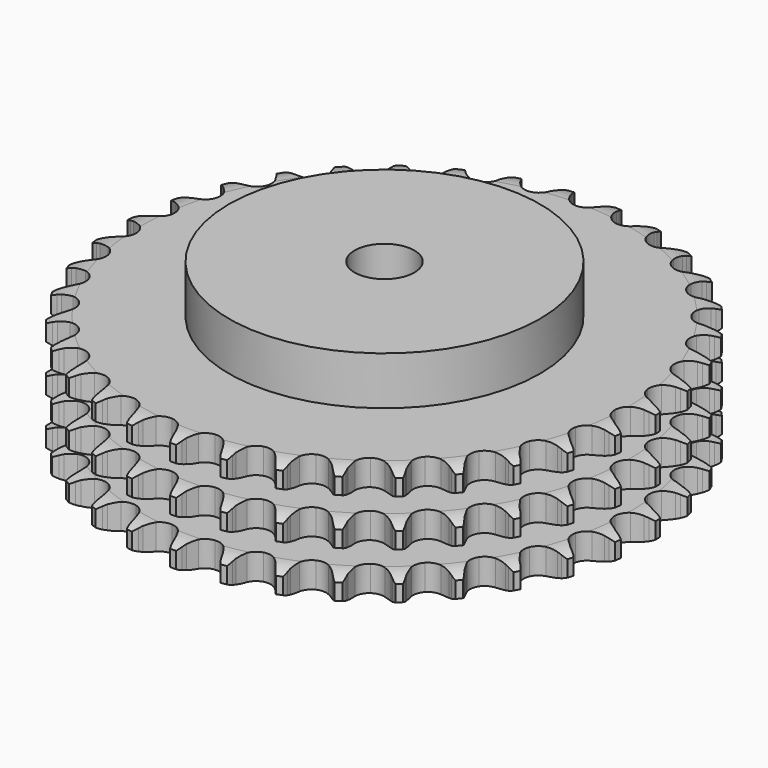
from build123d import *

# Parameters (mm, degrees)
PAD_DEPTH         = 49.8
SKETCH001_R       = 65
PAD001_DEPTH      = 70
SKETCH002_R       = 12.5
POCKET_DEPTH      = 0.001
POCKET_DEPTH_BACK = 70.001


with BuildPart() as part:
    # Sprocket → Pad (new body)
    with BuildSketch(Plane.XY):
        with BuildLine():
            ThreePointArc((-10.067115, 111.854811), (-8.635283, 110.142644), (-7.627397, 108.151206))
            Line((-7.627397, 108.151206), (-7.038579, 106.560645))
            ThreePointArc((-7.038579, 106.560645), (-6.107139, 104.508656), (-4.892548, 102.610495))
            ThreePointArc((-4.892548, 102.610495), (-2.736878, 100.803962), (0, 100.155911))
            ThreePointArc((0, 100.155911), (2.736878, 100.803962), (4.892548, 102.610495))
            ThreePointArc((4.892548, 102.610495), (6.107139, 104.508656), (7.038579, 106.560645))
            Line((7.038579, 106.560645), (7.627397, 108.151206))
            ThreePointArc((7.627397, 108.151206), (8.635283, 110.142644), (10.067115, 111.854811))
            ThreePointArc((10.067115, 111.854811), (11.170218, 109.914496), (11.806322, 107.775096))
            Line((11.806322, 107.775096), (12.101671, 106.104959))
            ThreePointArc((12.101671, 106.104959), (12.651747, 103.91963), (13.507889, 101.835101))
            ThreePointArc((13.507889, 101.835101), (15.306347, 99.67269), (17.883528, 98.546364))
            ThreePointArc((17.883528, 98.546364), (20.692138, 98.695313), (23.135734, 100.087904))
            Line((23.135734, 100.087904), (25.952604, 103.591385))
            ThreePointArc((25.952604, 103.591385), (26.364631, 104.332939), (26.815965, 105.051248))
            ThreePointArc((26.815965, 105.051248), (28.163239, 106.830717), (29.87778, 108.259706))
            ThreePointArc((29.87778, 108.259706), (30.616699, 106.153605), (30.860576, 103.935006))
            Line((30.860576, 103.935006), (30.852964, 102.238971))
            ThreePointArc((30.852964, 102.238971), (31.003994, 99.990542), (31.474171, 97.786642))
            ThreePointArc((31.474171, 97.786642), (32.857614, 95.337855), (35.192266, 93.769456))
            ThreePointArc((35.192266, 93.769456), (37.982335, 93.414515), (40.635319, 94.348406))
            Line((40.635319, 94.348406), (44.032491, 97.292612))
            ThreePointArc((44.032491, 97.292612), (44.570306, 97.948679), (45.142646, 98.574855))
            ThreePointArc((45.142646, 98.574855), (46.786005, 100.085163), (48.728149, 101.185044))
            ThreePointArc((48.728149, 101.185044), (49.079134, 98.98085), (48.922946, 96.754359))
            Line((48.922946, 96.754359), (48.612618, 95.08694))
            ThreePointArc((48.612618, 95.08694), (48.359748, 92.847676), (48.428847, 90.59524))
            ThreePointArc((48.428847, 90.59524), (49.35281, 87.938783), (51.369894, 85.978721))
            ThreePointArc((51.369894, 85.978721), (54.051749, 85.131297), (56.828851, 85.576472))
            Line((56.828851, 85.576472), (60.697138, 87.866775))
            ThreePointArc((60.697138, 87.866775), (61.343455, 88.416268), (62.018405, 88.930186))
            ThreePointArc((62.018405, 88.930186), (63.905031, 90.12279), (66.012355, 90.858212))
            ThreePointArc((66.012355, 90.858212), (65.964126, 88.62677), (65.412892, 86.463947))
            Line((65.412892, 86.463947), (64.809822, 84.878735))
            ThreePointArc((64.809822, 84.878735), (64.16118, 82.720609), (63.826981, 80.492033))
            ThreePointArc((63.826981, 80.492033), (64.261766, 77.713286), (65.896452, 75.424559))
            ThreePointArc((65.896452, 75.424559), (68.383895, 74.11189), (71.195857, 74.05404))
            Line((71.195857, 74.05404), (75.410928, 75.616827))
            ThreePointArc((75.410928, 75.616827), (76.144975, 76.042086), (76.900842, 76.427228))
            ThreePointArc((76.900842, 76.427228), (78.970096, 77.263795), (81.174869, 77.611122))
            ThreePointArc((81.174869, 77.611122), (80.728976, 75.424152), (79.800414, 73.394513))
            Line((79.800414, 73.394513), (78.923985, 71.942459))
            ThreePointArc((78.923985, 71.942459), (77.900418, 69.934834), (77.173662, 67.801745))
            ThreePointArc((77.173662, 67.801745), (77.105296, 64.99002), (78.305044, 62.446189))
            ThreePointArc((78.305044, 62.446189), (80.518127, 60.710465), (83.274569, 60.15145))
            Line((83.274569, 60.15145), (87.70095, 60.936493))
            ThreePointArc((87.70095, 60.936493), (88.499133, 61.223848), (89.311622, 61.467835))
            ThreePointArc((89.311622, 61.467835), (91.496998, 61.921479), (93.728357, 61.869547))
            ThreePointArc((93.728357, 61.869547), (92.89913, 59.797339), (91.623085, 57.966119))
            Line((91.623085, 57.966119), (90.501466, 56.693892))
            ThreePointArc((90.501466, 56.693892), (89.135873, 54.901296), (88.039919, 52.932254))
            ThreePointArc((88.039919, 52.932254), (87.470598, 50.177922), (88.196848, 47.460748))
            ThreePointArc((88.196848, 47.460748), (90.06444, 45.357756), (92.676769, 44.315543))
            Line((92.676769, 44.315543), (97.17219, 44.297609))
            ThreePointArc((97.17219, 44.297609), (98.008855, 44.437825), (98.851853, 44.532816))
            ThreePointArc((98.851853, 44.532816), (101.08311, 44.588956), (103.269337, 44.139433))
            ThreePointArc((103.269337, 44.139433), (102.08343, 42.248591), (100.500914, 40.674646))
            Line((100.500914, 40.674646), (99.170155, 39.623137))
            ThreePointArc((99.170155, 39.623137), (97.506428, 38.103185), (96.0765, 36.361476))
            ThreePointArc((96.0765, 36.361476), (95.024524, 33.753063), (95.253932, 30.949879))
            ThreePointArc((95.253932, 30.949879), (96.716007, 28.547212), (99.100261, 27.055298))
            Line((99.100261, 27.055298), (103.520237, 26.234963))
            ThreePointArc((103.520237, 26.234963), (104.368493, 26.223534), (105.214905, 26.166475))
            ThreePointArc((105.214905, 26.166475), (107.420329, 25.823307), (109.491157, 24.990642))
            ThreePointArc((109.491157, 24.990642), (107.986685, 23.341939), (106.148562, 22.075857))
            Line((106.148562, 22.075857), (104.651434, 21.278862))
            ThreePointArc((104.651434, 21.278862), (102.743046, 20.080406), (101.025103, 18.622011))
            ThreePointArc((101.025103, 18.622011), (99.524283, 16.243354), (99.249476, 13.444255))
            ThreePointArc((99.249476, 13.444255), (100.259043, 10.819136), (102.338589, 8.925473))
            Line((102.338589, 8.925473), (106.541057, 7.329105))
            ThreePointArc((106.541057, 7.329105), (107.373641, 7.166397), (108.196262, 6.959123))
            ThreePointArc((108.196262, 6.959123), (110.304969, 6.227675), (112.19384, 5.038631))
            ThreePointArc((112.19384, 5.038631), (110.419158, 3.685057), (108.384507, 2.767531))
            Line((108.384507, 2.767531), (106.76913, 2.250667))
            ThreePointArc((106.76913, 2.250667), (104.677418, 1.412226), (102.726677, 0.284019))
            ThreePointArc((102.726677, 0.284019), (100.825249, -1.78843), (100.055061, -4.493478))
            ThreePointArc((100.055061, -4.493478), (100.57967, -7.256675), (102.28767, -9.491224))
            Line((102.28767, -9.491224), (106.137561, -11.812317))
            ThreePointArc((106.137561, -11.812317), (106.927712, -12.121074), (107.700103, -12.471902))
            ThreePointArc((107.700103, -12.471902), (109.644317, -13.568119), (111.290522, -15.075325))
            ThreePointArc((111.290522, -15.075325), (109.302669, -16.090266), (107.136885, -16.629745))
            Line((107.136885, -16.629745), (105.455179, -16.849867))
            ThreePointArc((105.455179, -16.849867), (103.247372, -17.301344), (101.12653, -18.063102))
            ThreePointArc((101.12653, -18.063102), (98.885609, -19.762733), (97.644793, -22.286787))
            ThreePointArc((97.644793, -22.286787), (97.667584, -25.099251), (98.949142, -27.602865))
            Line((98.949142, -27.602865), (102.322716, -30.574082))
            ThreePointArc((102.322716, -30.574082), (103.045038, -31.018963), (103.742374, -31.502069))
            ThreePointArc((103.742374, -31.502069), (105.459607, -32.927823), (106.810234, -34.704749))
            ThreePointArc((106.810234, -34.704749), (104.673103, -35.348434), (102.445796, -35.492528))
            Line((102.445796, -35.492528), (100.751811, -35.408832))
            ThreePointArc((100.751811, -35.408832), (98.49887, -35.458834), (96.276094, -35.82966))
            ThreePointArc((96.276094, -35.82966), (93.767705, -37.101845), (92.096142, -39.36378))
            ThreePointArc((92.096142, -39.36378), (91.616381, -42.135116), (92.430307, -44.827327))
            Line((92.430307, -44.827327), (95.219135, -48.35317))
            ThreePointArc((95.219135, -48.35317), (95.850412, -48.919878), (96.45028, -49.519734))
            ThreePointArc((96.45028, -49.519734), (97.885338, -51.229199), (98.896977, -53.218733))
            ThreePointArc((98.896977, -53.218733), (96.679256, -53.470474), (94.462014, -53.214552))
            Line((94.462014, -53.214552), (92.810197, -52.829728))
            ThreePointArc((92.810197, -52.829728), (90.584533, -52.476648), (88.331265, -52.444623))
            ThreePointArc((88.331265, -52.444623), (85.636029, -53.248473), (83.587445, -55.175589))
            ThreePointArc((83.587445, -55.175589), (82.620553, -57.816724), (82.940685, -60.611002))
            Line((82.940685, -60.611002), (85.055132, -64.578148))
            ThreePointArc((85.055132, -64.578148), (85.575075, -65.248467), (86.058194, -65.945794))
            ThreePointArc((86.058194, -65.945794), (87.164954, -67.884026), (87.80509, -70.022223))
            ThreePointArc((87.80509, -70.022223), (85.578059, -69.873929), (83.442145, -69.226216))
            Line((83.442145, -69.226216), (81.885586, -68.552633))
            ThreePointArc((81.885586, -68.552633), (79.758735, -67.80782), (77.547396, -67.373972))
            ThreePointArc((77.547396, -67.373972), (74.751941, -67.683652), (72.392178, -69.214009))
            ThreePointArc((72.392178, -69.214009), (70.969232, -71.640055), (70.785282, -74.446589))
            Line((70.785282, -74.446589), (72.157388, -78.727531))
            ThreePointArc((72.157388, -78.727531), (72.549285, -79.479917), (72.900127, -80.252302))
            ThreePointArc((72.900127, -80.252302), (73.643016, -82.357006), (73.891076, -84.575141))
            ThreePointArc((73.891076, -84.575141), (71.726313, -84.031579), (69.740378, -83.012893))
            Line((69.740378, -83.012893), (68.329106, -82.0722))
            ThreePointArc((68.329106, -82.0722), (66.369425, -80.959592), (64.27109, -80.137867))
            ThreePointArc((64.27109, -80.137867), (61.465263, -79.943422), (58.870167, -81.027834))
            ThreePointArc((58.870167, -81.027834), (57.036902, -83.160815), (56.354782, -85.889402))
            Line((56.354782, -85.889402), (56.940445, -90.346546))
            ThreePointArc((56.940445, -90.346546), (57.191701, -91.156817), (57.398991, -91.979435))
            ThreePointArc((57.398991, -91.979435), (57.754131, -94.182963), (57.602141, -96.409745))
            ThreePointArc((57.602141, -96.409745), (55.569223, -95.488385), (53.797097, -94.131466))
            Line((53.797097, -94.131466), (52.576472, -92.953899))
            ThreePointArc((52.576472, -92.953899), (50.846948, -91.509257), (48.929059, -90.326065))
            ThreePointArc((48.929059, -90.326065), (46.203042, -89.633745), (43.456021, -90.237358))
            ThreePointArc((43.456021, -90.237358), (41.271358, -92.008719), (40.112992, -94.571659))
            Line((40.112992, -94.571659), (39.89339, -99.061749))
            ThreePointArc((39.89339, -99.061749), (39.995928, -99.903862), (40.053003, -100.750273))
            ThreePointArc((40.053003, -100.750273), (40.008981, -102.981802), (39.461826, -105.14566))
            ThreePointArc((39.461826, -105.14566), (37.626094, -103.876115), (36.124733, -102.224578))
            Line((36.124733, -102.224578), (35.133987, -100.847983))
            ThreePointArc((35.133987, -100.847983), (33.690208, -99.117739), (32.014407, -97.611109))
            ThreePointArc((32.014407, -97.611109), (29.455817, -96.443166), (26.645163, -96.546579))
            ThreePointArc((26.645163, -96.546579), (24.179319, -97.899386), (22.581938, -100.214305))
            Line((22.581938, -100.214305), (21.564129, -104.593026))
            ThreePointArc((21.564129, -104.593026), (21.514654, -105.439915), (21.419679, -106.282915))
            ThreePointArc((21.419679, -106.282915), (20.977909, -108.470722), (20.053176, -110.502107))
            ThreePointArc((20.053176, -110.502107), (18.47363, -108.925181), (17.29129, -107.032107))
            Line((17.29129, -107.032107), (16.562267, -105.50073))
            ThreePointArc((16.562267, -105.50073), (15.450637, -103.540495), (14.070786, -101.758851))
            ThreePointArc((14.070786, -101.758851), (11.761858, -100.152824), (8.977907, -99.752713))
            ThreePointArc((8.977907, -99.752713), (6.310137, -100.643487), (4.325082, -102.63598))
            Line((4.325082, -102.63598), (2.541778, -106.762597))
            ThreePointArc((2.541778, -106.762597), (2.341881, -107.587042), (2.097908, -108.399536))
            ThreePointArc((2.097908, -108.399536), (1.272591, -110.473303), (0, -112.306926))
            ThreePointArc((0, -112.306926), (-1.272591, -110.473303), (-2.097908, -108.399536))
            Line((-2.097908, -108.399536), (-2.541778, -106.762597))
            ThreePointArc((-2.541778, -106.762597), (-3.285531, -104.635374), (-4.325082, -102.63598))
            ThreePointArc((-4.325082, -102.63598), (-6.310137, -100.643487), (-8.977907, -99.752713))
            ThreePointArc((-8.977907, -99.752713), (-11.761858, -100.152824), (-14.070786, -101.758851))
            Line((-14.070786, -101.758851), (-16.562267, -105.50073))
            ThreePointArc((-16.562267, -105.50073), (-16.906162, -106.276233), (-17.29129, -107.032107))
            ThreePointArc((-17.29129, -107.032107), (-18.47363, -108.925181), (-20.053176, -110.502107))
            ThreePointArc((-20.053176, -110.502107), (-20.977909, -108.470722), (-21.419679, -106.282915))
            Line((-21.419679, -106.282915), (-21.564129, -104.593026))
            ThreePointArc((-21.564129, -104.593026), (-21.916098, -102.367186), (-22.581938, -100.214305))
            ThreePointArc((-22.581938, -100.214305), (-24.179319, -97.899386), (-26.645163, -96.546579))
            ThreePointArc((-26.645163, -96.546579), (-29.455817, -96.443166), (-32.014407, -97.611109))
            Line((-32.014407, -97.611109), (-35.133987, -100.847983))
            ThreePointArc((-35.133987, -100.847983), (-35.610827, -101.549618), (-36.124733, -102.224578))
            ThreePointArc((-36.124733, -102.224578), (-37.626094, -103.876115), (-39.461826, -105.14566))
            ThreePointArc((-39.461826, -105.14566), (-40.008981, -102.981802), (-40.053003, -100.750273))
            Line((-40.053003, -100.750273), (-39.89339, -99.061749))
            ThreePointArc((-39.89339, -99.061749), (-39.842264, -96.808833), (-40.112992, -94.571659))
            ThreePointArc((-40.112992, -94.571659), (-41.271358, -92.008719), (-43.456021, -90.237358))
            ThreePointArc((-43.456021, -90.237358), (-46.203042, -89.633745), (-48.929059, -90.326065))
            Line((-48.929059, -90.326065), (-52.576472, -92.953899))
            ThreePointArc((-52.576472, -92.953899), (-53.170931, -93.559115), (-53.797097, -94.131466))
            ThreePointArc((-53.797097, -94.131466), (-55.569223, -95.488385), (-57.602141, -96.409745))
            ThreePointArc((-57.602141, -96.409745), (-57.754131, -94.182963), (-57.398991, -91.979435))
            Line((-57.398991, -91.979435), (-56.940445, -90.346546))
            ThreePointArc((-56.940445, -90.346546), (-56.487868, -88.138964), (-56.354782, -85.889402))
            ThreePointArc((-56.354782, -85.889402), (-57.036902, -83.160815), (-58.870167, -81.027834))
            ThreePointArc((-58.870167, -81.027834), (-61.465263, -79.943422), (-64.27109, -80.137867))
            Line((-64.27109, -80.137867), (-68.329106, -82.0722))
            ThreePointArc((-68.329106, -82.0722), (-69.022078, -82.561545), (-69.740378, -83.012893))
            ThreePointArc((-69.740378, -83.012893), (-71.726313, -84.031579), (-73.891076, -84.575141))
            ThreePointArc((-73.891076, -84.575141), (-73.643016, -82.357006), (-72.900127, -80.252302))
            Line((-72.900127, -80.252302), (-72.157388, -78.727531))
            ThreePointArc((-72.157388, -78.727531), (-71.317904, -76.636237), (-70.785282, -74.446589))
            ThreePointArc((-70.785282, -74.446589), (-70.969232, -71.640055), (-72.392178, -69.214009))
            ThreePointArc((-72.392178, -69.214009), (-74.751941, -67.683652), (-77.547396, -67.373972))
            Line((-77.547396, -67.373972), (-81.885586, -68.552633))
            ThreePointArc((-81.885586, -68.552633), (-82.654798, -68.91038), (-83.442145, -69.226216))
            ThreePointArc((-83.442145, -69.226216), (-85.578059, -69.873929), (-87.80509, -70.022223))
            ThreePointArc((-87.80509, -70.022223), (-87.164954, -67.884026), (-86.058194, -65.945794))
            Line((-86.058194, -65.945794), (-85.055132, -64.578148))
            ThreePointArc((-85.055132, -64.578148), (-83.855724, -62.670357), (-82.940685, -60.611002))
            ThreePointArc((-82.940685, -60.611002), (-82.620553, -57.816724), (-83.587445, -55.175589))
            ThreePointArc((-83.587445, -55.175589), (-85.636029, -53.248473), (-88.331265, -52.444623))
            Line((-88.331265, -52.444623), (-92.810197, -52.829728))
            ThreePointArc((-92.810197, -52.829728), (-93.630924, -53.044377), (-94.462014, -53.214552))
            ThreePointArc((-94.462014, -53.214552), (-96.679256, -53.470474), (-98.896977, -53.218733))
            ThreePointArc((-98.896977, -53.218733), (-97.885338, -51.229199), (-96.45028, -49.519734))
            Line((-96.45028, -49.519734), (-95.219135, -48.35317))
            ThreePointArc((-95.219135, -48.35317), (-93.698353, -46.690201), (-92.430307, -44.827327))
            ThreePointArc((-92.430307, -44.827327), (-91.616381, -42.135116), (-92.096142, -39.36378))
            ThreePointArc((-92.096142, -39.36378), (-93.767705, -37.101845), (-96.276094, -35.82966))
            Line((-96.276094, -35.82966), (-100.751811, -35.408832))
            ThreePointArc((-100.751811, -35.408832), (-101.597676, -35.473485), (-102.445796, -35.492528))
            ThreePointArc((-102.445796, -35.492528), (-104.673103, -35.348434), (-106.810234, -34.704749))
            ThreePointArc((-106.810234, -34.704749), (-105.459607, -32.927823), (-103.742374, -31.502069))
            Line((-103.742374, -31.502069), (-102.322716, -30.574082))
            ThreePointArc((-102.322716, -30.574082), (-100.529439, -29.209384), (-98.949142, -27.602865))
            ThreePointArc((-98.949142, -27.602865), (-97.667584, -25.099251), (-97.644793, -22.286787))
            ThreePointArc((-97.644793, -22.286787), (-98.885609, -19.762733), (-101.12653, -18.063102))
            Line((-101.12653, -18.063102), (-105.455179, -16.849867))
            ThreePointArc((-105.455179, -16.849867), (-106.298995, -16.762446), (-107.136885, -16.629745))
            ThreePointArc((-107.136885, -16.629745), (-109.302669, -16.090266), (-111.290522, -15.075325))
            ThreePointArc((-111.290522, -15.075325), (-109.644317, -13.568119), (-107.700103, -12.471902))
            Line((-107.700103, -12.471902), (-106.137561, -11.812317))
            ThreePointArc((-106.137561, -11.812317), (-104.129427, -10.789752), (-102.28767, -9.491224))
            ThreePointArc((-102.28767, -9.491224), (-100.57967, -7.256675), (-100.055061, -4.493478))
            ThreePointArc((-100.055061, -4.493478), (-100.825249, -1.78843), (-102.726677, 0.284019))
            Line((-102.726677, 0.284019), (-106.76913, 2.250667))
            ThreePointArc((-106.76913, 2.250667), (-107.583777, 2.487352), (-108.384507, 2.767531))
            ThreePointArc((-108.384507, 2.767531), (-110.419158, 3.685057), (-112.19384, 5.038631))
            ThreePointArc((-112.19384, 5.038631), (-110.304969, 6.227675), (-108.196262, 6.959123))
            Line((-108.196262, 6.959123), (-106.541057, 7.329105))
            ThreePointArc((-106.541057, 7.329105), (-104.382608, 7.976671), (-102.338589, 8.925473))
            ThreePointArc((-102.338589, 8.925473), (-100.259043, 10.819136), (-99.249476, 13.444255))
            ThreePointArc((-99.249476, 13.444255), (-99.524283, 16.243354), (-101.025103, 18.622011))
            Line((-101.025103, 18.622011), (-104.651434, 21.278862))
            ThreePointArc((-104.651434, 21.278862), (-105.410728, 21.657204), (-106.148562, 22.075857))
            ThreePointArc((-106.148562, 22.075857), (-107.986685, 23.341939), (-109.491157, 24.990642))
            ThreePointArc((-109.491157, 24.990642), (-107.420329, 25.823307), (-105.214905, 26.166475))
            Line((-105.214905, 26.166475), (-103.520237, 26.234963))
            ThreePointArc((-103.520237, 26.234963), (-101.280848, 26.486717), (-99.100261, 27.055298))
            ThreePointArc((-99.100261, 27.055298), (-96.716007, 28.547212), (-95.253932, 30.949879))
            ThreePointArc((-95.253932, 30.949879), (-95.024524, 33.753063), (-96.0765, 36.361476))
            Line((-96.0765, 36.361476), (-99.170155, 39.623137))
            ThreePointArc((-99.170155, 39.623137), (-99.849691, 40.130976), (-100.500914, 40.674646))
            ThreePointArc((-100.500914, 40.674646), (-102.08343, 42.248591), (-103.269337, 44.139433))
            ThreePointArc((-103.269337, 44.139433), (-101.08311, 44.588956), (-98.851853, 44.532816))
            Line((-98.851853, 44.532816), (-97.17219, 44.297609))
            ThreePointArc((-97.17219, 44.297609), (-94.923837, 44.145458), (-92.676769, 44.315543))
            ThreePointArc((-92.676769, 44.315543), (-90.06444, 45.357756), (-88.196848, 47.460748))
            ThreePointArc((-88.196848, 47.460748), (-87.470598, 50.177922), (-88.039919, 52.932254))
            Line((-88.039919, 52.932254), (-90.501466, 56.693892))
            ThreePointArc((-90.501466, 56.693892), (-91.079403, 57.314906), (-91.623085, 57.966119))
            ThreePointArc((-91.623085, 57.966119), (-92.89913, 59.797339), (-93.728357, 61.869547))
            ThreePointArc((-93.728357, 61.869547), (-91.496998, 61.921479), (-89.311622, 61.467835))
            Line((-89.311622, 61.467835), (-87.70095, 60.936493))
            ThreePointArc((-87.70095, 60.936493), (-85.515896, 60.385328), (-83.274569, 60.15145))
            ThreePointArc((-83.274569, 60.15145), (-80.518127, 60.710465), (-78.305044, 62.446189))
            ThreePointArc((-78.305044, 62.446189), (-77.105296, 64.99002), (-77.173662, 67.801745))
            Line((-77.173662, 67.801745), (-78.923985, 71.942459))
            ThreePointArc((-78.923985, 71.942459), (-79.381748, 72.656687), (-79.800414, 73.394513))
            ThreePointArc((-79.800414, 73.394513), (-80.728976, 75.424152), (-81.174869, 77.611122))
            ThreePointArc((-81.174869, 77.611122), (-78.970096, 77.263795), (-76.900842, 76.427228))
            Line((-76.900842, 76.427228), (-75.410928, 75.616827))
            ThreePointArc((-75.410928, 75.616827), (-73.359404, 74.684363), (-71.195857, 74.05404))
            ThreePointArc((-71.195857, 74.05404), (-68.383895, 74.11189), (-65.896452, 75.424559))
            ThreePointArc((-65.896452, 75.424559), (-64.261766, 77.713286), (-63.826981, 80.492033))
            Line((-63.826981, 80.492033), (-64.809822, 84.878735))
            ThreePointArc((-64.809822, 84.878735), (-65.132698, 85.663222), (-65.412892, 86.463947))
            ThreePointArc((-65.412892, 86.463947), (-65.964126, 88.62677), (-66.012355, 90.858212))
            ThreePointArc((-66.012355, 90.858212), (-63.905031, 90.12279), (-62.018405, 88.930186))
            Line((-62.018405, 88.930186), (-60.697138, 87.866775))
            ThreePointArc((-60.697138, 87.866775), (-58.84508, 86.582982), (-56.828851, 85.576472))
            ThreePointArc((-56.828851, 85.576472), (-54.051749, 85.131297), (-51.369894, 85.978721))
            ThreePointArc((-51.369894, 85.978721), (-49.35281, 87.938783), (-48.428847, 90.59524))
            Line((-48.428847, 90.59524), (-48.612618, 95.08694))
            ThreePointArc((-48.612618, 95.08694), (-48.79023, 95.916471), (-48.922946, 96.754359))
            ThreePointArc((-48.922946, 96.754359), (-49.079134, 98.98085), (-48.728149, 101.185044))
            ThreePointArc((-48.728149, 101.185044), (-46.786005, 100.085163), (-45.142646, 98.574855))
            Line((-45.142646, 98.574855), (-44.032491, 97.292612))
            ThreePointArc((-44.032491, 97.292612), (-42.439427, 95.698753), (-40.635319, 94.348406))
            ThreePointArc((-40.635319, 94.348406), (-37.982335, 93.414515), (-35.192266, 93.769456))
            ThreePointArc((-35.192266, 93.769456), (-32.857614, 95.337855), (-31.474171, 97.786642))
            Line((-31.474171, 97.786642), (-30.852964, 102.238971))
            ThreePointArc((-30.852964, 102.238971), (-30.879603, 103.086886), (-30.860576, 103.935006))
            ThreePointArc((-30.860576, 103.935006), (-30.616699, 106.153605), (-29.87778, 108.259706))
            ThreePointArc((-29.87778, 108.259706), (-28.163239, 106.830717), (-26.815965, 105.051248))
            Line((-26.815965, 105.051248), (-25.952604, 103.591385))
            ThreePointArc((-25.952604, 103.591385), (-24.669735, 101.738687), (-23.135734, 100.087904))
            ThreePointArc((-23.135734, 100.087904), (-20.692138, 98.695313), (-17.883528, 98.546364))
            ThreePointArc((-17.883528, 98.546364), (-15.306347, 99.67269), (-13.507889, 101.835101))
            Line((-13.507889, 101.835101), (-12.101671, 106.104959))
            ThreePointArc((-12.101671, 106.104959), (-11.976481, 106.944004), (-11.806322, 107.775096))
            ThreePointArc((-11.806322, 107.775096), (-11.170218, 109.914496), (-10.067115, 111.854811))
        make_face()
    extrude(amount=PAD_DEPTH)

    # Sketch → Groove (revolve, cut)
    with BuildSketch(Plane.XZ):
        with BuildLine():
            ThreePointArc((102.014719, 0), (106.373618, 0.506758), (110.5, 2))
            Line((110.5, 2), (110.5, 8.8))
            ThreePointArc((110.5, 8.8), (106.373618, 10.293242), (102.014719, 10.8))
            Line((65, 10.8), (102.014719, 10.8))
            Line((65, 10.8), (65, 19.5))
            Line((65, 19.5), (102.014719, 19.5))
            ThreePointArc((102.014719, 19.5), (106.373618, 20.006758), (110.5, 21.5))
            Line((110.5, 28.3), (110.5, 21.5))
            ThreePointArc((110.5, 28.3), (106.373618, 29.793242), (102.014719, 30.3))
            Line((65, 30.3), (102.014719, 30.3))
            Line((65, 39), (65, 30.3))
            Line((102.014719, 39), (65, 39))
            ThreePointArc((102.014719, 39), (106.373618, 39.506758), (110.5, 41))
            Line((110.5, 41), (110.5, 47.8))
            ThreePointArc((110.5, 47.8), (106.373618, 49.293242), (102.014719, 49.8))
            Line((102.014719, 49.8), (120.5, 49.8))
            Line((120.5, 49.8), (120.5, 0))
            Line((102.014719, 0), (120.5, 0))
        make_face()
    revolve(axis=Axis((0, 0, 0), (0, 0, 1)), mode=Mode.SUBTRACT)

    # Sketch001 → Pad001 (join)
    with BuildSketch(Plane.XY):
        Circle(SKETCH001_R)
    extrude(amount=PAD001_DEPTH)

    # Sketch002 → Pocket (cut, two sides)
    with BuildSketch(Plane.XY) as pocket_sk:
        Circle(SKETCH002_R)
    extrude(amount=-POCKET_DEPTH, mode=Mode.SUBTRACT)
    extrude(pocket_sk.sketch, amount=POCKET_DEPTH_BACK, mode=Mode.SUBTRACT)


solid = part.part
